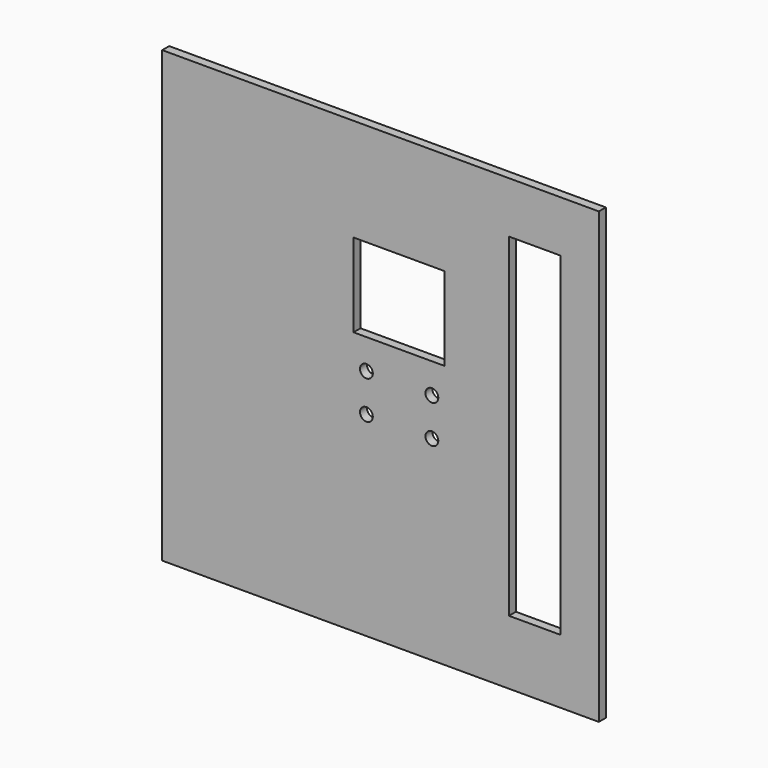
from build123d import *

# Parameters (mm, degrees)
F0_W     = 340
F0_H     = 350
F0_W_2   = 71
F0_H_2   = 65
F0_W_3   = 40
F0_H_3   = 260
F1_DEPTH = 6.8


with BuildPart() as f1:
    # F0 (on Front) → F1 (new body)
    with BuildSketch(Plane.XZ):
        with Locations((21, 78.236227)):
            Rectangle(F0_W, F0_H)
        with BuildLine():
            ThreePointArc((5, 55.236227), (10, 60.236227), (15, 55.236227))
            ThreePointArc((15, 55.236227), (10, 50.236227), (5, 55.236227))
        make_face(mode=Mode.SUBTRACT)
        with BuildLine():
            ThreePointArc((56, 55.236227), (61, 60.236227), (66, 55.236227))
            ThreePointArc((66, 55.236227), (61, 50.236227), (56, 55.236227))
        make_face(mode=Mode.SUBTRACT)
        with BuildLine():
            ThreePointArc((15, 84.836227), (10, 79.836227), (5, 84.836227))
            ThreePointArc((5, 84.836227), (10, 89.836227), (15, 84.836227))
        make_face(mode=Mode.SUBTRACT)
        with BuildLine():
            ThreePointArc((66, 84.836227), (61, 79.836227), (56, 84.836227))
            ThreePointArc((56, 84.836227), (61, 89.836227), (66, 84.836227))
        make_face(mode=Mode.SUBTRACT)
        with Locations((35.5, 140.736227)):
            Rectangle(F0_W_2, F0_H_2, mode=Mode.SUBTRACT)
        with Locations((141, 83.236227)):
            Rectangle(F0_W_3, F0_H_3, mode=Mode.SUBTRACT)
    extrude(amount=F1_DEPTH)


solid = f1.part
